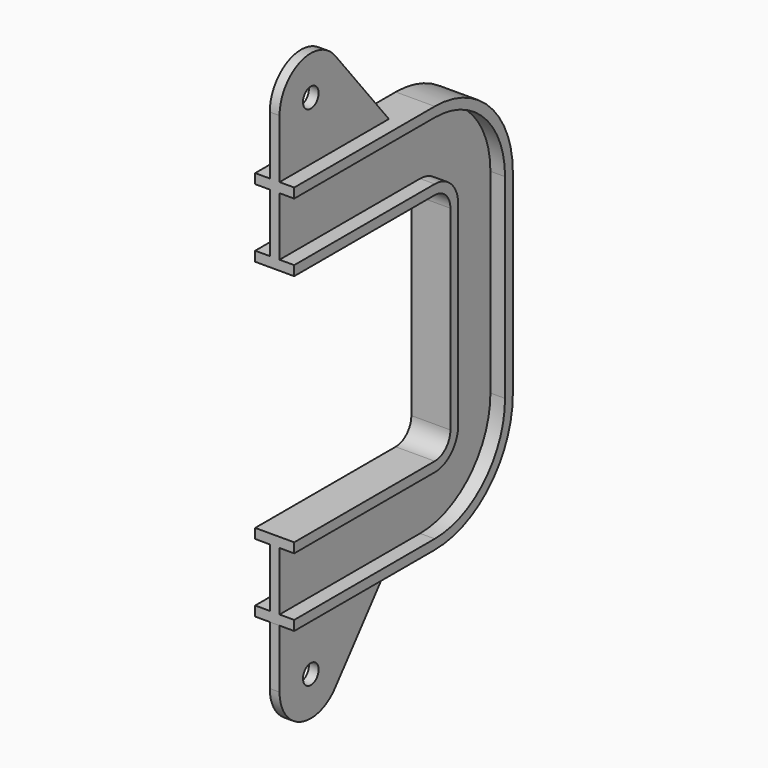
from build123d import *

# Parameters (mm, degrees)
F3_R     = 5
F4_DEPTH = 2.5


with BuildPart() as f2:
    # F2: sweep along a path in F1
    with BuildLine(Plane.YZ) as f2_path:
        Line((0, -20), (90, -20))
        ThreePointArc((90, -20), (97.071068, -22.928932), (100, -30))
        Line((100, -30), (100, -130))
        ThreePointArc((100, -130), (97.071068, -137.071068), (90, -140))
        Line((90, -140), (0, -140))
    # F0 (on Front) → F2 (sweep)
    with BuildSketch(Plane.XZ):
        Polygon((2.5, -12), (2.5, 0), (2.5, 12), (2.5, 15), (5.5, 15), (10, 15), (10, 20), (0, 20), (-10, 20), (-10, 15), (-5.5, 15), (-2.5, 15), (-2.5, 12), (-2.5, 0), (-2.5, -12), (-2.5, -15), (-5.5, -15), (-10, -15), (-10, -20), (0, -20), (10, -20), (10, -15), (5.5, -15), (2.5, -15), align=None)
    sweep(path=f2_path.line)

    # F3 (on Right) → F4 (join, symmetric)
    with BuildSketch(Plane.YZ):
        with BuildLine():
            Line((0, 50), (0, 20))
            Line((0, 20), (70, 20))
            Line((70, 20), (35.548045, 62.580075))
            ThreePointArc((35.548045, 62.580075), (13.327703, 68.854189), (0, 50))
        make_face()
        with Locations((20, 50)):
            Circle(F3_R, mode=Mode.SUBTRACT)
        with BuildLine():
            Line((0, -180), (0, -210))
            ThreePointArc((0, -210), (13.327703, -228.854189), (35.548045, -222.580075))
            Line((35.548045, -222.580075), (70, -180))
            Line((70, -180), (0, -180))
        make_face()
        with Locations((20, -210)):
            Circle(F3_R, mode=Mode.SUBTRACT)
    extrude(amount=F4_DEPTH, both=True)


solid = f2.part
